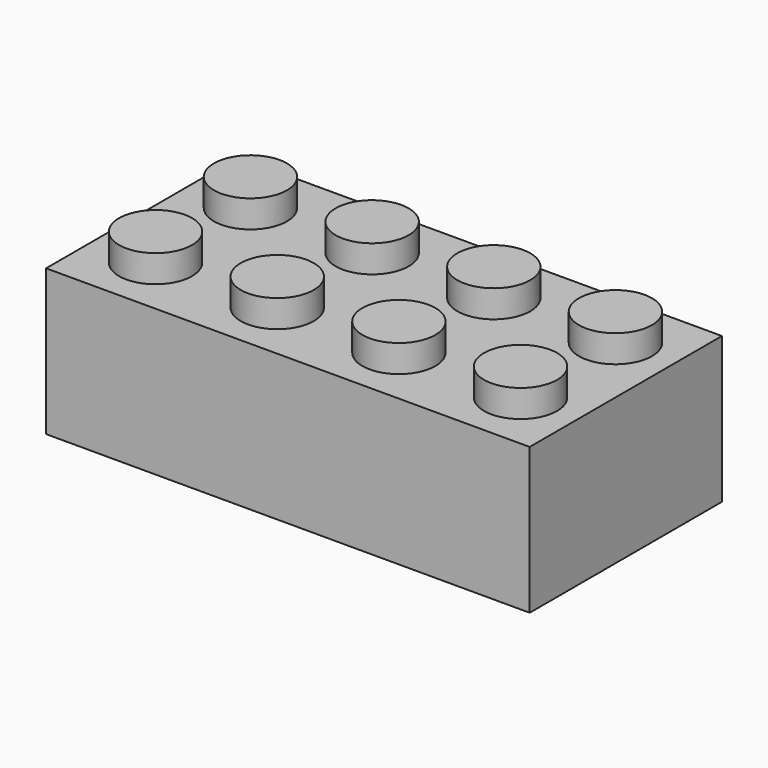
from build123d import *

# Parameters (mm, degrees)
SKETCH_W               = 47.7
SKETCH_H               = 23.7
PAD_DEPTH              = 14.4
SKETCH001_W            = 44.1
SKETCH001_H            = 20.1
POCKET_DEPTH           = 12.6
SKETCH002_R            = 3.6
PAD001_DEPTH           = 2.7
LINEARPATTERN_COUNT    = 4
LINEARPATTERN_PITCH    = 12
SKETCH003_R            = 4.8825
PAD002_DEPTH           = 12.6
LINEARPATTERN001_COUNT = 3
LINEARPATTERN001_PITCH = 12
SKETCH004_R            = 3.6
POCKET001_DEPTH        = 12.6
LINEARPATTERN002_COUNT = 3
LINEARPATTERN002_PITCH = 12


with BuildPart() as part:
    # Sketch → Pad (new body)
    with BuildSketch(Plane.XY):
        with Locations((23.85, 11.85)):
            Rectangle(SKETCH_W, SKETCH_H)
    extrude(amount=PAD_DEPTH)

    # Sketch001 (on Face5 of Pad) → Pocket (cut)
    with BuildSketch(Plane(origin=(0, 0, 0), x_dir=(1, 0, 0), z_dir=(0, 0, -1))):
        with Locations((23.85, -11.85)):
            Rectangle(SKETCH001_W, SKETCH001_H)
    extrude(amount=-POCKET_DEPTH, mode=Mode.SUBTRACT)

    # Sketch002 (on Face5 of Pocket) → Pad001 (join)
    with BuildSketch(Plane.XY.offset(14.4)):
        with Locations((6, 17.7)):
            Circle(SKETCH002_R)
        with Locations((6, 6)):
            Circle(SKETCH002_R)
    pad001 = extrude(amount=PAD001_DEPTH)

    # LinearPattern: Pad001 ×4
    with Locations(*[(i * LINEARPATTERN_PITCH, 0, 0) for i in range(1, LINEARPATTERN_COUNT)]):
        add(pad001)

    # Sketch003 (on Face19 of LinearPattern) → Pad002 (join)
    with BuildSketch(Plane(origin=(0, 0, 12.6), x_dir=(1, 0, 0), z_dir=(0, 0, -1))):
        with Locations((12, -12)):
            Circle(SKETCH003_R)
    pad002 = extrude(amount=PAD002_DEPTH)

    # LinearPattern001: Pad002 ×3
    with Locations(*[(i * LINEARPATTERN001_PITCH, 0, 0) for i in range(1, LINEARPATTERN001_COUNT)]):
        add(pad002)

    # Sketch004 (on Face31 of LinearPattern001) → Pocket001 (cut)
    with BuildSketch(Plane(origin=(0, 0, 0), x_dir=(1, 0, 0), z_dir=(0, 0, -1))):
        with Locations((12, -12)):
            Circle(SKETCH004_R)
    pocket001 = extrude(amount=-POCKET001_DEPTH, mode=Mode.SUBTRACT)

    # LinearPattern002: Pocket001 ×3
    with Locations(*[(i * LINEARPATTERN002_PITCH, 0, 0) for i in range(1, LINEARPATTERN002_COUNT)]):
        add(pocket001, mode=Mode.SUBTRACT)


solid = part.part
